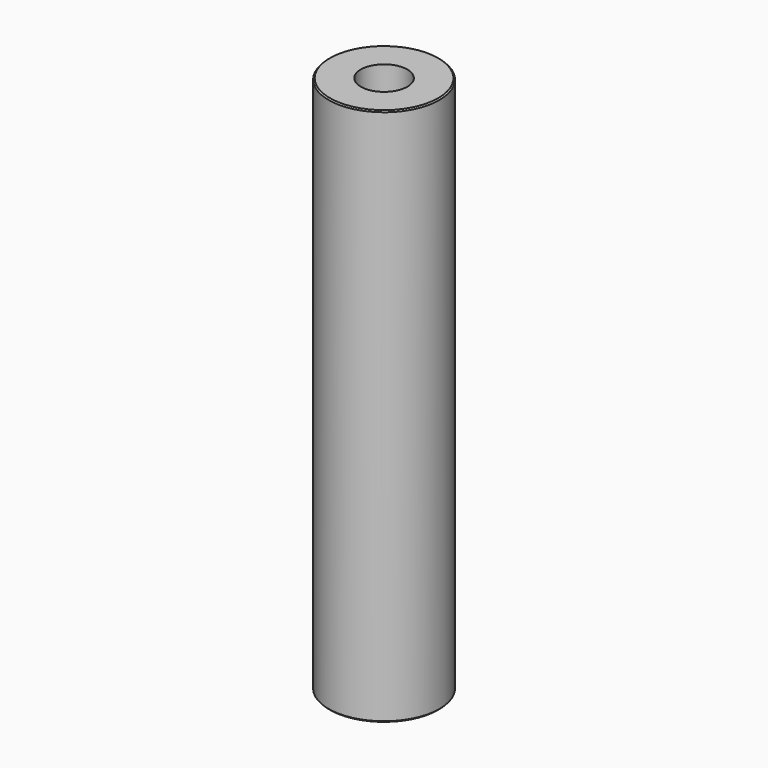
from build123d import *

# Parameters (mm, degrees)
F0_R     = 11.1125
F1_DEPTH = 107.95
F2_SIZE2 = 0.254
F2_SIZE  = 0.254
F3_D     = 9.3472
F3_DEPTH = 22.225
F3_TIP   = 2.8081821891


with BuildPart() as f1:
    # F0 (on Top) → F1 (new body)
    with BuildSketch(Plane.XY):
        with Locations((-52.5188781321, 28.4764673561)):
            Circle(F0_R)
    extrude(amount=-F1_DEPTH)

    # F2
    f2_edges = [f1.edges().sort_by_distance(p)[0] for p in [
        (-63.631378, 28.476467, 0),
        (-63.631378, 28.476467, -107.95),
    ]]
    chamfer(f2_edges, length=F2_SIZE, length2=F2_SIZE2)

    # F3
    with Locations(Plane.XY):
        with Locations((-52.5188781321, 28.4764673561)):
            Hole(F3_D / 2, depth=F3_DEPTH)
            with Locations((0, 0, -(F3_DEPTH + F3_TIP / 2))):  # 118° drill point
                Cone(0, F3_D / 2, F3_TIP, mode=Mode.SUBTRACT)


solid = f1.part
